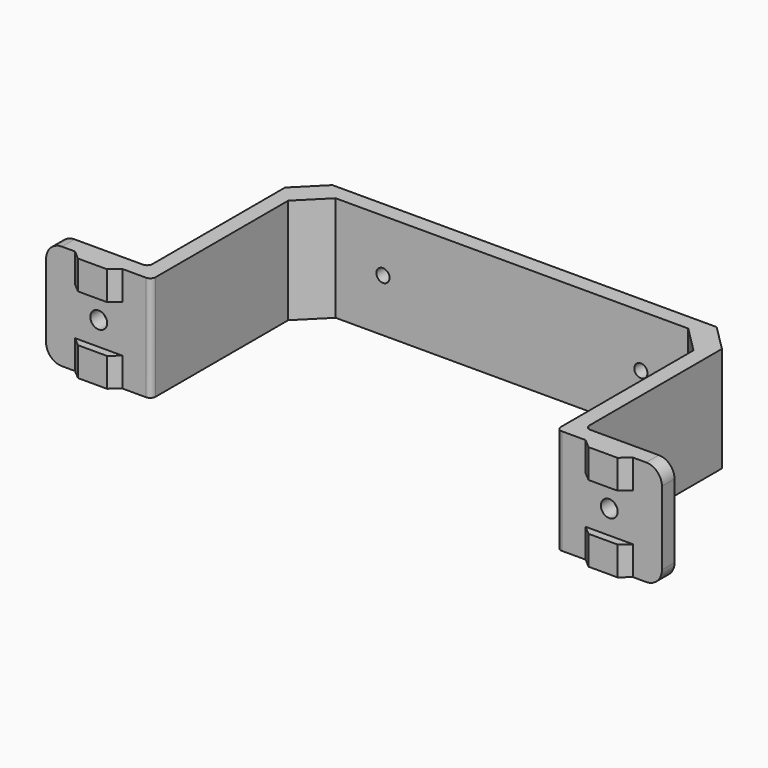
from build123d import *

# Parameters (mm, degrees)
PAD_DEPTH       = 20
PAD001_DEPTH    = 20
SKETCH002_R     = 1.6
POCKET_DEPTH    = 262.582051
SKETCH003_W     = 9
SKETCH003_H     = 9
POCKET001_DEPTH = 1.5
CHAMFER_SIZE    = 5
FILLET_R        = 1
FILLET001_R     = 3
SKETCH004_R     = 5
SKETCH004_R_2   = 1.25
PAD002_DEPTH    = 4
SKETCH005_R     = 1.25
POCKET002_DEPTH = 46.001
CHAMFER001_SIZE = 2.5


with BuildPart() as part:
    # Sketch → Pad (new body)
    with BuildSketch(Plane.XY):
        Polygon((-41.5, -20.25), (-41.5, 20.25), (41.5, 20.25), (41.5, -20.25), (38.5, -20.25), (38.5, 17.25), (-38.5, 17.25), (-38.5, -20.25), align=None)
    extrude(amount=PAD_DEPTH)

    # Sketch001 (on Face9 of Pad) → Pad001 (join)
    with BuildSketch(Plane(origin=(0, 0, 0), x_dir=(1, 0, 0), z_dir=(0, 0, -1))):
        Polygon((-58.5, 20.25), (-58.5, 17.25), (-41.5, 17.25), (-41.5, 20.25), (-44, 20.25), (-45.75, 21.75), (-51.25, 21.75), (-53, 20.25), align=None)
    pad001 = extrude(amount=-PAD001_DEPTH)

    # Sketch002 (on Face2 of Pad001) → Pocket (cut, through all)
    with BuildSketch(Plane.XZ.offset(21.75)):
        with Locations((-48.5, 10)):
            Circle(SKETCH002_R)
    pocket = extrude(amount=-POCKET_DEPTH, mode=Mode.SUBTRACT)

    # Sketch003 (on Face5 of Pocket) → Pocket001 (cut)
    with BuildSketch(Plane.XZ.offset(21.75)):
        with Locations((-48.5, 10)):
            Rectangle(SKETCH003_W, SKETCH003_H)
    pocket001 = extrude(amount=-POCKET001_DEPTH, mode=Mode.SUBTRACT)

    # Mirrored: Pad001, Pocket, Pocket001 across Sketch001 V_Axis
    add(pad001.mirror(Plane(origin=(0, 0, 0), x_dir=(0, 0, -1), z_dir=(1, 0, 0))))
    add(pocket.mirror(Plane(origin=(0, 0, 0), x_dir=(0, 0, -1), z_dir=(1, 0, 0))), mode=Mode.SUBTRACT)
    add(pocket001.mirror(Plane(origin=(0, 0, 0), x_dir=(0, 0, -1), z_dir=(1, 0, 0))), mode=Mode.SUBTRACT)

    # Chamfer
    chamfer_edges = [part.edges().sort_by_distance(p)[0] for p in [
        (41.5, 20.25, 10),
        (38.5, 17.25, 10),
        (-41.5, 20.25, 10),
        (-38.5, 17.25, 10),
    ]]
    chamfer(chamfer_edges, length=CHAMFER_SIZE)

    # Fillet
    fillet_edges = [part.edges().sort_by_distance(p)[0] for p in [
        (38.5, -20.25, 10),
        (-38.5, -20.25, 10),
        (-41.5, -17.25, 10),
        (41.5, -17.25, 10),
    ]]
    fillet(fillet_edges, radius=FILLET_R)

    # Fillet001
    fillet001_edges = [part.edges().sort_by_distance(p)[0] for p in [
        (58.5, -18.75, 0),
        (58.5, -18.75, 20),
        (-58.5, -18.75, 0),
        (-58.5, -18.75, 20),
    ]]
    fillet(fillet001_edges, radius=FILLET001_R)

    # Sketch004 (on Face10 of Fillet001) → Pad002 (join)
    with BuildSketch(Plane(origin=(0, 20.25, 0), x_dir=(-1, 0, 0), z_dir=(0, 1, 0))):
        with Locations((-24.5, 10)):
            Circle(SKETCH004_R)
        with Locations((-24.5, 10)):
            Circle(SKETCH004_R_2, mode=Mode.SUBTRACT)
        with Locations((24.5, 10)):
            Circle(SKETCH004_R)
        with Locations((24.5, 10)):
            Circle(SKETCH004_R_2, mode=Mode.SUBTRACT)
    extrude(amount=PAD002_DEPTH)

    # Sketch005 (on Face47 of Pad002) → Pocket002 (cut, through all)
    with BuildSketch(Plane(origin=(0, 24.25, 0), x_dir=(-1, 0, 0), z_dir=(0, 1, 0))):
        with Locations((24.5, 10)):
            Circle(SKETCH005_R)
        with Locations((-24.5, 10)):
            Circle(SKETCH005_R)
    extrude(amount=-POCKET002_DEPTH, mode=Mode.SUBTRACT)

    # Chamfer001
    chamfer001_edges = [part.edges().sort_by_distance(p)[0] for p in [
        (29.5, 24.25, 10),
        (-19.5, 24.25, 10),
    ]]
    chamfer(chamfer001_edges, length=CHAMFER001_SIZE)


solid = part.part
